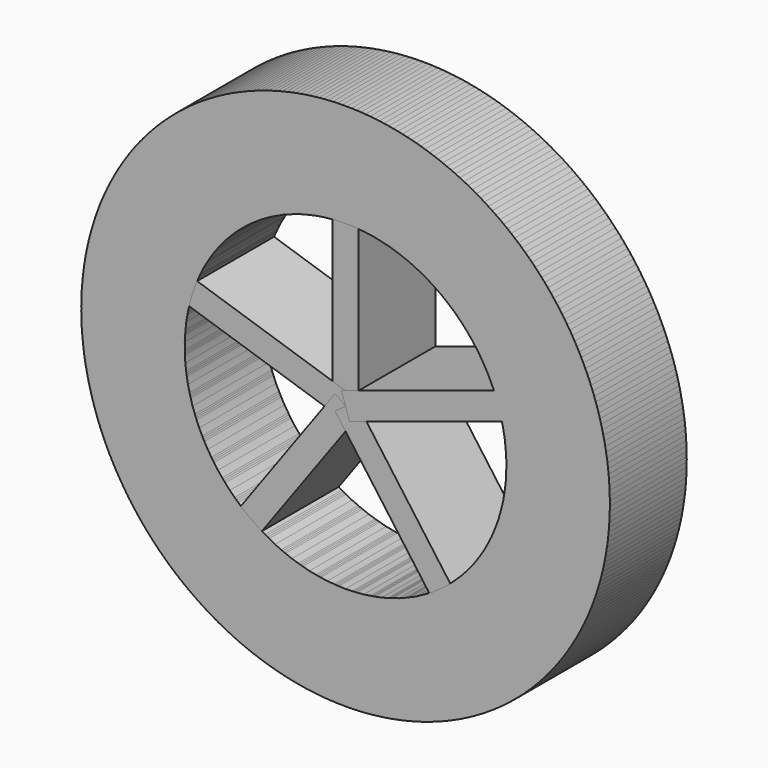
from build123d import *

# Parameters (mm, degrees)
F0_R     = 139.7
F0_R_2   = 85.09
F1_DEPTH = 25.4
F2_W     = 13.716
F2_H     = 101.6
F3_DEPTH = 25.4
F4_COUNT = 5


with BuildPart() as f1:
    # F0 (on Front) → F1 (new body, symmetric)
    with BuildSketch(Plane.XZ):
        Circle(F0_R)
        Circle(F0_R_2, mode=Mode.SUBTRACT)
    extrude(amount=F1_DEPTH, both=True)

    # F2 (on Front) → F3 (join, symmetric)
    with BuildSketch(Plane.XZ):
        with Locations((0, 50.8)):
            Rectangle(F2_W, F2_H)
    extrude(amount=F3_DEPTH, both=True)


with BuildPart() as f4_1:
    # F4: instance of F1
    add(f1.part.rotate(Axis((0, 0, 0), (0, -1, 0)), 1 * 360 / F4_COUNT))


with BuildPart() as f4_2:
    # F4: instance of F1
    add(f1.part.rotate(Axis((0, 0, 0), (0, -1, 0)), 2 * 360 / F4_COUNT))


with BuildPart() as f4_3:
    # F4: instance of F1
    add(f1.part.rotate(Axis((0, 0, 0), (0, -1, 0)), 3 * 360 / F4_COUNT))


with BuildPart() as f4_4:
    # F4: instance of F1
    add(f1.part.rotate(Axis((0, 0, 0), (0, -1, 0)), 4 * 360 / F4_COUNT))


solid = Compound([f1.part, f4_1.part, f4_2.part, f4_3.part, f4_4.part])
